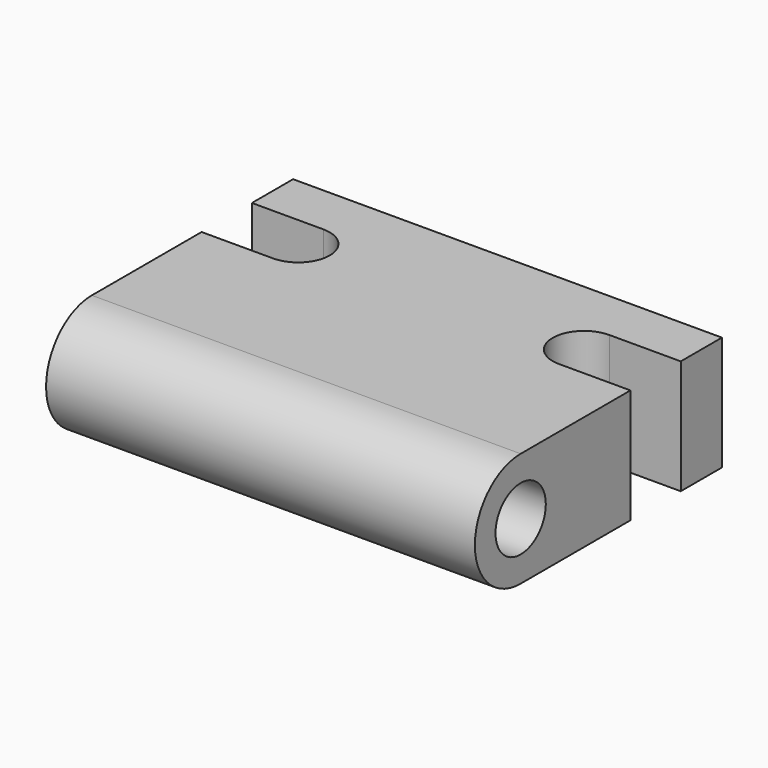
from build123d import *

# Parameters (mm, degrees)
F0_R     = 11
F1_DEPTH = 150
F3_DEPTH = 50


with BuildPart() as f1:
    # F0 (on Right) → F1 (new body)
    with BuildSketch(Plane.YZ):
        with BuildLine():
            Line((44, 40), (-44, 40))
            ThreePointArc((-44, 40), (-64, 20), (-44, 0))
            Line((-44, 0), (44, 0))
            Line((44, 0), (44, 40))
        make_face()
        with Locations((-44, 20)):
            Circle(F0_R, mode=Mode.SUBTRACT)
    extrude(amount=F1_DEPTH)

    # F2 (on face) → F3 (cut)
    with BuildSketch(Plane.XY.offset(40)):
        with BuildLine():
            Line((150, 4), (150, 26))
            Line((150, 26), (125, 26))
            ThreePointArc((125, 26), (114, 15), (125, 4))
            Line((125, 4), (150, 4))
        make_face()
        with BuildLine():
            Line((25, 26), (0, 26))
            Line((0, 26), (0, 4))
            Line((0, 4), (25, 4))
            ThreePointArc((25, 4), (36, 15), (25, 26))
        make_face()
    extrude(amount=-F3_DEPTH, mode=Mode.SUBTRACT)


solid = f1.part
